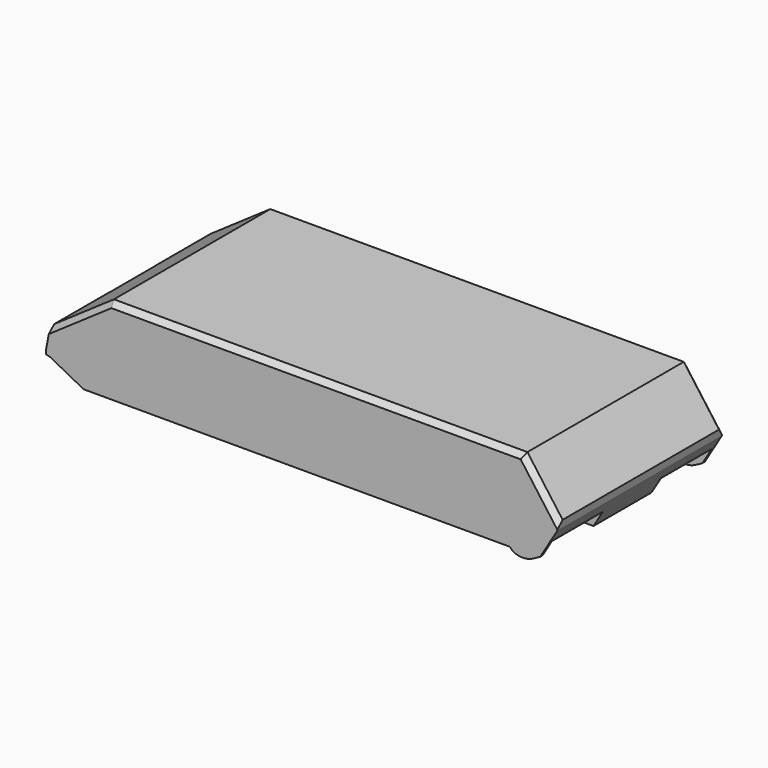
from build123d import *

# Parameters (mm, degrees)
F1_DEPTH = 22.606
F3_DEPTH = 56.642
F5_DEPTH = 123.952
F6_W     = 17.9281285021
F6_H     = 3.7313278299
F7_DEPTH = 131.318
F8_SIZE  = 1.27


with BuildPart() as f1:
    # F0 (on Top) → F1 (new body)
    with BuildSketch(Plane.XY):
        Polygon((67.9795068204, -48.892733641), (67.9795068204, -23.492733641), (-59.0204931796, -23.492733641), (-59.0204931796, -41.780733641), (-57.7496923506, -41.780733641), (-57.7496923506, -48.892733641), (-57.7496923506, -56.004733641), (-59.0204931796, -56.004733641), (-59.0204931796, -74.292733641), (67.9795068204, -74.292733641), align=None)
    extrude(amount=F1_DEPTH)

    # F2 (on face) → F3 (cut)
    with BuildSketch(Plane.XZ.offset(74.292733641)):
        Polygon((-59.0204931796, 22.606), (-59.0204931796, 7.1184414792), (-58.0175313886, 12.4418523751), (-43.2899855077, 22.606), align=None)
        with BuildLine():
            Line((55.4608365675, 1.4634394883), (-49.7719274679, 1.4634394883))
            Line((-49.7719274679, 1.4634394883), (-57.9830260793, 5.7754135323))
            Line((-57.9830260793, 5.7754135323), (-59.0204931796, 6.0288892267))
            Line((-59.0204931796, 6.0288892267), (-59.0204931796, 0))
            Line((-59.0204931796, 0), (67.9795068204, 0))
            Line((67.9795068204, 0), (67.9795068204, 22.606))
            Line((67.9795068204, 22.606), (58.8168874383, 22.606))
            Line((58.8168874383, 22.606), (67.5153278326, 10.7161320989))
            Line((67.5153278326, 10.7161320989), (67.1798294962, 8.7120201094))
            Line((67.1798294962, 8.7120201094), (63.0014389753, 1.7273251433))
            add(Edge.make_bspline(
                [(55.4608365675, 1.4634394883), (55.7992606547, 1.1248105944), (56.5402688521, 0.3862817839), (58.6439188352, -0.0157318094), (60.613555974, 0.3869426535), (61.8581460025, 1.1113634898), (62.6646578312, 1.4950803015), (63.0014389753, 1.7273251433)],
                knots=[0, 0, 0, 0, 0.1896033215, 0.4147497426, 0.6360801274, 0.8233787666, 1, 1, 1, 1], degree=3))
        make_face()
    extrude(amount=-F3_DEPTH, mode=Mode.SUBTRACT)

    # F4 (on face) → F5 (cut)
    with BuildSketch(Plane(origin=(-57.7496923506, 0, 0), x_dir=(0, -1, 0), z_dir=(-1, 0, 0))):
        Polygon((39.9286693899, 5.5741476826), (24.2253392935, 5.5741476826), (24.2253392935, 0.5848236615), (24.2253392935, -3.517596783), (39.9286693899, -3.517596783), (39.9286693899, 0.5848236615), align=None)
        Polygon((73.5601279885, 5.5741476826), (57.856797892, 5.5741476826), (57.856797892, 0.5848236615), (57.856797892, -3.517596783), (73.5601279885, -3.517596783), (73.5601279885, 0.5848236615), align=None)
    extrude(amount=-F5_DEPTH, mode=Mode.SUBTRACT)

    # F6 (on face) → F7 (cut)
    with BuildSketch(Plane(origin=(-57.7496923506, 0, 0), x_dir=(0, -1, 0), z_dir=(-1, 0, 0))):
        with Locations((48.892733641, -0.1383387716)):
            Rectangle(F6_W, F6_H)
    extrude(amount=-F7_DEPTH, mode=Mode.SUBTRACT)

    # F8
    f8_edges = [f1.edges().sort_by_distance(p)[0] for p in [
        (-50.653758, -23.492734, 17.523926),
        (-50.653758, -74.292734, 17.523926),
        (7.763451, -23.492734, 22.606),
        (7.763451, -74.292734, 22.606),
        (63.166108, -74.292734, 16.661066),
        (63.166108, -23.492734, 16.661066),
    ]]
    chamfer(f8_edges, length=F8_SIZE)


solid = f1.part
